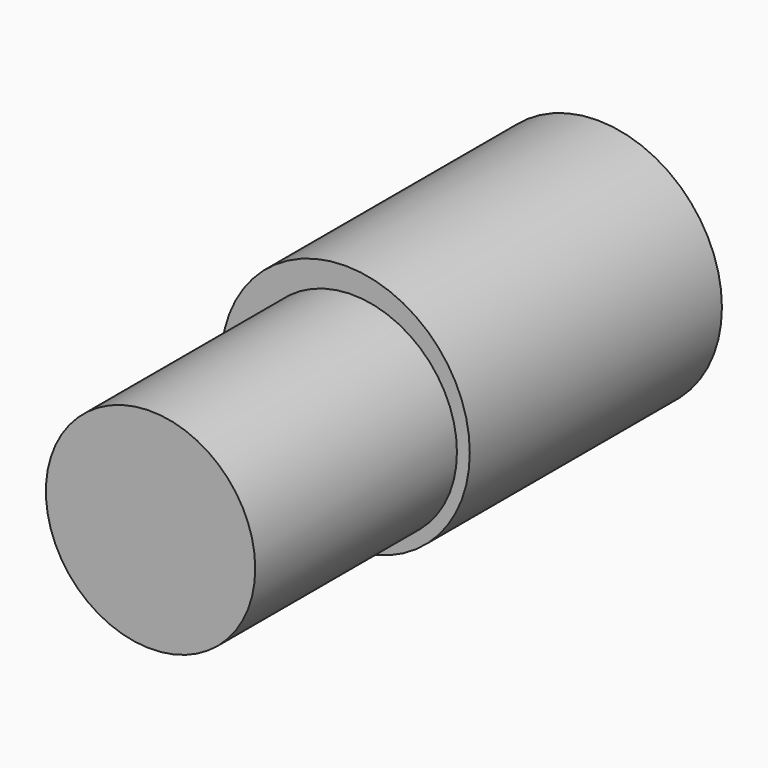
from build123d import *

# Parameters (mm, degrees)
F0_R     = 50.0856425189
F1_DEPTH = 101.6
F2_R     = 42.1792579473
F3_DEPTH = 101.6
F4_DEPTH = 25.4
F5_R     = 38.8092501819
F6_DEPTH = 101.6


with BuildPart() as f1:
    # F0 (on Front) → F1 (new body)
    with BuildSketch(Plane.XZ):
        with Locations((-2.7341553941, 9.0658813715)):
            Circle(F0_R)
    extrude(amount=F1_DEPTH)

    # F2 (on face) → F3 (join)
    with BuildSketch(Plane.XZ.offset(101.6)):
        with Locations((0, 7.6268524863)):
            Circle(F2_R)
    extrude(amount=F3_DEPTH)

    # F4 (add): a face of the model
    f4_faces = [f1.faces().sort_by_distance(p)[0] for p in [
        (-2.7341553941, 0, 9.0658813715),
    ]]
    extrude(f4_faces, amount=F4_DEPTH)

    # F5 (on face) → F6 (cut)
    with BuildSketch(Plane(origin=(0, 25.4, 0), x_dir=(-1, 0, 0), z_dir=(0, 1, 0))):
        with Locations((0, 15.973219648)):
            Circle(F5_R)
    extrude(amount=-F6_DEPTH, mode=Mode.SUBTRACT)


solid = f1.part
